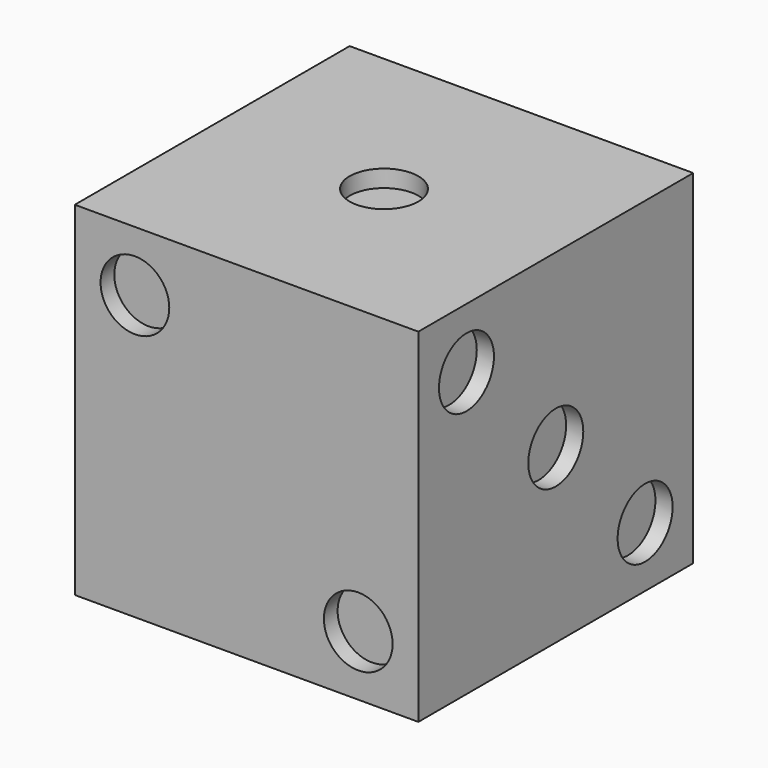
from build123d import *

# Parameters (mm, degrees)
F0_W      = 127
F0_H      = 127
F1_DEPTH  = 127
F2_R      = 12.7
F3_DEPTH  = 6.35
F4_R      = 12.7
F5_DEPTH  = 6.35
F6_R      = 12.7
F7_DEPTH  = 6.35
F8_R      = 12.7
F9_DEPTH  = 6.35
F10_DEPTH = 6.35
F11_R     = 12.7
F12_DEPTH = 6.35
F13_R     = 12.7
F14_DEPTH = 6.35
F15_R     = 12.7
F16_DEPTH = 6.35


with BuildPart() as f1:
    # F0 (on Top) → F1 (new body)
    with BuildSketch(Plane.XY):
        with Locations((63.5, 63.5)):
            Rectangle(F0_W, F0_H)
    extrude(amount=F1_DEPTH)

    # F2 (on face) → F3 (cut)
    with BuildSketch(Plane.XY.offset(127)):
        with Locations((63.5, 63.5)):
            Circle(F2_R)
    extrude(amount=-F3_DEPTH, mode=Mode.SUBTRACT)

    # F4 (on face) → F5 (cut)
    with BuildSketch(Plane.XZ):
        with Locations((104.775, 22.225)):
            Circle(F4_R)
    extrude(amount=-F5_DEPTH, mode=Mode.SUBTRACT)

    # F6 (on face) → F7 (cut)
    with BuildSketch(Plane.XZ):
        with Locations((22.225, 104.775)):
            Circle(F6_R)
    extrude(amount=-F7_DEPTH, mode=Mode.SUBTRACT)

    # F8 (on face) → F9 (cut)
    with BuildSketch(Plane.YZ.offset(127)):
        with Locations((22.225, 104.775)):
            Circle(F8_R)
        with Locations((104.775, 22.225)):
            Circle(F8_R)
    extrude(amount=-F9_DEPTH, mode=Mode.SUBTRACT)

    # F8 (on face) → F10 (cut)
    with BuildSketch(Plane.YZ.offset(127)):
        with Locations((22.225, 104.775)):
            Circle(F8_R)
        with Locations((104.775, 22.225)):
            Circle(F8_R)
        with Locations((63.5, 63.5)):
            Circle(F8_R)
    extrude(amount=-F10_DEPTH, mode=Mode.SUBTRACT)

    # F11 (on face) → F12 (cut)
    with BuildSketch(Plane(origin=(0, 0, 0), x_dir=(0, -1, 0), z_dir=(-1, 0, 0))):
        with Locations((-22.225, 104.775)):
            Circle(F11_R)
        with Locations((-104.775, 104.775)):
            Circle(F11_R)
        with Locations((-104.775, 22.225)):
            Circle(F11_R)
        with Locations((-22.225, 22.225)):
            Circle(F11_R)
    extrude(amount=-F12_DEPTH, mode=Mode.SUBTRACT)

    # F13 (on face) → F14 (cut)
    with BuildSketch(Plane(origin=(0, 127, 0), x_dir=(-1, 0, 0), z_dir=(0, 1, 0))):
        with Locations((-104.775, 104.775)):
            Circle(F13_R)
        with Locations((-104.775, 22.225)):
            Circle(F13_R)
        with Locations((-22.225, 104.775)):
            Circle(F13_R)
        with Locations((-22.225, 22.225)):
            Circle(F13_R)
        with Locations((-63.5, 63.5)):
            Circle(F13_R)
    extrude(amount=-F14_DEPTH, mode=Mode.SUBTRACT)

    # F15 (on face) → F16 (cut)
    with BuildSketch(Plane(origin=(0, 0, 0), x_dir=(1, 0, 0), z_dir=(0, 0, -1))):
        with Locations((22.225, -22.225)):
            Circle(F15_R)
        with Locations((22.225, -63.5)):
            Circle(F15_R)
        with Locations((22.225, -104.775)):
            Circle(F15_R)
        with Locations((104.775, -22.225)):
            Circle(F15_R)
        with Locations((104.775, -63.5)):
            Circle(F15_R)
        with Locations((104.775, -104.775)):
            Circle(F15_R)
    extrude(amount=-F16_DEPTH, mode=Mode.SUBTRACT)


solid = f1.part
